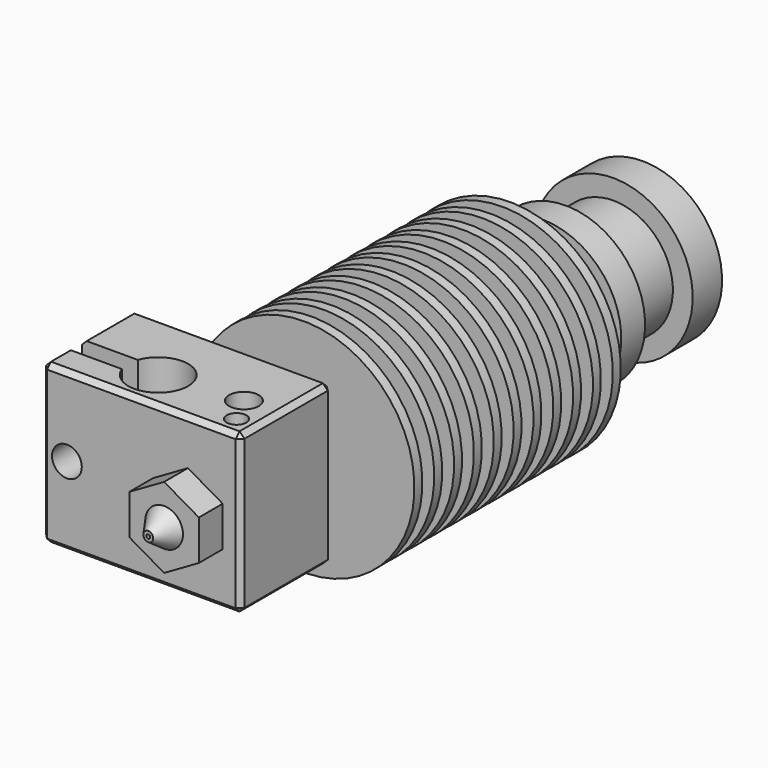
from build123d import *

# Parameters (mm, degrees)
F0_W          = 4.5
F0_H          = 11.5
F0_W_2        = 0.5
F0_W_3        = 0.9
F1_DEPTH      = 8
F1_DEPTH_BACK = 8
F4_SIZE       = 0.5
F5_R          = 1.5
F6_DEPTH      = 3.45
F5_R_2        = 0.775
F7_DEPTH      = 4.45
F5_R_3        = 1
F8_DEPTH      = 2
F9_R          = 1.5
F10_DEPTH     = 11.6
F9_R_2        = 2.5
F9_R_3        = 0.5
F11_DEPTH     = 4
F12_DEPTH     = 1


with BuildPart() as f1:
    # F0 (on Top) → F1 (new body, two sides)
    with BuildSketch(Plane.XY) as f1_sk:
        with BuildLine():
            Line((-1.4, -34.95), (-1.4, -23.45))
            Line((-1.4, -23.45), (-15.5, -23.45))
            Line((-15.5, -23.45), (-15.5, -29.95))
            Line((-15.5, -29.95), (-9.85, -29.95))
            ThreePointArc((-9.85, -29.95), (-3.9700700534, -30.95), (-9.85, -31.95))
            Line((-9.85, -31.95), (-15.5, -31.95))
            Line((-15.5, -31.95), (-15.5, -34.95))
            Line((-15.5, -34.95), (-2.5, -34.95))
            Line((-2.5, -34.95), (-1.4, -34.95))
        make_face()
        with Locations((2.25, -29.2)):
            Rectangle(F0_W, F0_H)
        with Locations((-1.15, -29.2)):
            Rectangle(F0_W_2, F0_H)
        with Locations((-0.45, -29.2)):
            Rectangle(F0_W_3, F0_H)
    extrude(amount=F1_DEPTH)
    extrude(f1_sk.sketch, amount=-F1_DEPTH_BACK)

    # F0 (on Top) → F2 (revolve)
    with BuildSketch(Plane.XY):
        with Locations((-1.15, -29.2)):
            Rectangle(F0_W_2, F0_H)
        Polygon((-0.9, -38.95), (-0.9, -34.95), (-1.4, -34.95), (-2.5, -34.95), (-2.5, -35.95), (-1.9, -38.9505927906), (-0.5, -40.95), (-0.2, -40.95), align=None)
        Polygon((-0.9, -23.45), (-0.9, 14.85), (-4, 14.85), (-4, 21.35), (-8, 21.35), (-8, 17.65), (-6, 17.65), (-6, 11.65), (-8, 11.65), (-8, 8.65), (-4.5, 8.65), (-4.5, 7.15), (-8, 7.15), (-8, 6.15), (-4.5, 6.15), (-4.5, 4.65), (-11.15, 4.65), (-11.15, 3.65), (-4.75, 3.65), (-4.75, 2.15), (-11.15, 2.15), (-11.15, 1.15), (-5, 1.15), (-5, -0.35), (-11.15, -0.35), (-11.15, -1.35), (-5.25, -1.35), (-5.25, -2.85), (-11.15, -2.85), (-11.15, -3.85), (-5.5, -3.85), (-5.5, -5.35), (-11.15, -5.35), (-11.15, -6.35), (-5.75, -6.35), (-5.75, -7.85), (-11.15, -7.85), (-11.15, -8.85), (-6, -8.85), (-6, -10.35), (-11.15, -10.35), (-11.15, -11.35), (-6.25, -11.35), (-6.25, -12.85), (-11.15, -12.85), (-11.15, -13.85), (-6.5, -13.85), (-6.5, -15.35), (-11.15, -15.35), (-11.15, -16.35), (-6.75, -16.35), (-6.75, -17.85), (-11.15, -17.85), (-11.15, -18.85), (-7, -18.85), (-7, -20.35), (-11.15, -20.35), (-11.15, -21.35), (-1.4, -21.35), (-1.4, -23.45), align=None)
    revolve(axis=Axis((0, 15, 0), (0, 1, 0)))

    # F0 (on Top) → F3 (revolve, cut)
    with BuildSketch(Plane.XY):
        with Locations((-0.45, -29.2)):
            Rectangle(F0_W_3, F0_H)
    revolve(axis=Axis((0, 15, 0), (0, 1, 0)), mode=Mode.SUBTRACT)

    # F4
    f4_edges = [f1.edges().sort_by_distance(p)[0] for p in [
        (-15.5, -23.45, 0),
        (-15.5, -26.7, 8),
        (-5.5, -23.45, 8),
        (-15.5, -26.7, -8),
        (-15.5, -33.45, -8),
        (-15.5, -33.45, 8),
        (4.5, -29.2, -8),
        (-5.5, -23.45, -8),
        (-5.5, -34.95, -8),
        (-15.5, -34.95, 0),
        (4.5, -23.45, 0),
        (4.5, -34.95, 0),
        (4.5, -29.2, 8),
        (-5.5, -34.95, 8),
    ]]
    chamfer(f4_edges, length=F4_SIZE)

    # F5 (on face) → F6 (cut)
    with BuildSketch(Plane.XY.offset(8)):
        with Locations((1, -30.15)):
            Circle(F5_R)
    extrude(amount=-F6_DEPTH, mode=Mode.SUBTRACT)

    # F5 (on face) → F7 (cut)
    with BuildSketch(Plane.XY.offset(8)):
        with Locations((2.5, -32.95)):
            Circle(F5_R_2)
    extrude(amount=-F7_DEPTH, mode=Mode.SUBTRACT)

    # F5 (on face) → F8 (cut)
    with BuildSketch(Plane.XY.offset(8)):
        with Locations((2.5, -32.95)):
            Circle(F5_R_3)
        with Locations((2.5, -32.95)):
            Circle(F5_R_2, mode=Mode.SUBTRACT)
    extrude(amount=-F8_DEPTH, mode=Mode.SUBTRACT)

    # F9 (on face) → F10 (cut)
    with BuildSketch(Plane.XZ.offset(34.95)):
        with Locations((-13, 0)):
            Circle(F9_R)
    extrude(amount=-F10_DEPTH, mode=Mode.SUBTRACT)

    # F9 (on face) → F11 (join)
    with BuildSketch(Plane.XZ.offset(34.95)):
        Polygon((3.5, -2.0207259422), (3.5, 2.0207259422), (0, 4.0414518843), (-3.5, 2.0207259422), (-3.5, -2.0207259422), (0, -4.0414518843), align=None)
        Circle(F9_R_2, mode=Mode.SUBTRACT)
        Circle(F9_R_2)
        Circle(F9_R_3, mode=Mode.SUBTRACT)
    extrude(amount=F11_DEPTH)

    # F9 (on face) → F12 (cut)
    with BuildSketch(Plane.XZ.offset(34.95)):
        Polygon((3.5, -2.0207259422), (3.5, 2.0207259422), (0, 4.0414518843), (-3.5, 2.0207259422), (-3.5, -2.0207259422), (0, -4.0414518843), align=None)
        Circle(F9_R_2, mode=Mode.SUBTRACT)
    extrude(amount=F12_DEPTH, mode=Mode.SUBTRACT)


solid = f1.part
